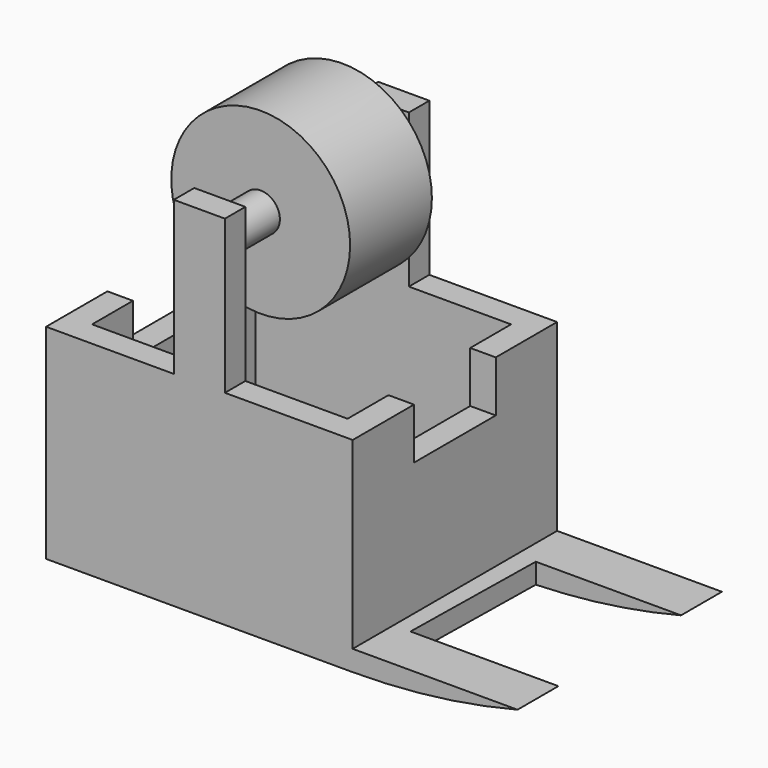
from build123d import *

# Parameters (mm, degrees)
F1_DEPTH  = 127
F2_W      = 127
F2_H      = 101.6
F3_DEPTH  = 76.2
F5_DEPTH  = 25.4
F7_DEPTH  = 25.4
F8_W      = 25.4
F8_H      = 12.7
F9_DEPTH  = 76.2
F11_DEPTH = 25.4
F12_R     = 9.525
F13_DEPTH = 101.6
F15_R     = 44.45
F15_R_2   = 9.525
F16_DEPTH = 25.4


with BuildPart() as f1:
    # F0 (on Front) → F1 (new body)
    with BuildSketch(Plane.XZ):
        Polygon((0, 101.6), (0, 0), (152.4, 0), (152.4, 10.206657), (152.4, 101.6), align=None)
        with BuildLine():
            Line((152.4, 10.206657), (152.4, 0))
            ThreePointArc((152.4, 0), (193.68606, 2.561486), (234.338875, 10.206657))
            Line((234.338875, 10.206657), (152.4, 10.206657))
        make_face()
    extrude(amount=F1_DEPTH)

    # F2 (on face) → F3 (cut)
    with BuildSketch(Plane.XY.offset(101.6)):
        with Locations((76.2, -63.5)):
            Rectangle(F2_W, F2_H)
    extrude(amount=-F3_DEPTH, mode=Mode.SUBTRACT)

    # F4 (on face) → F5 (cut)
    with BuildSketch(Plane.YZ.offset(152.4)):
        Polygon((-38.1, 101.6), (-63.5, 101.6), (-88.9, 101.6), (-88.9, 76.2), (-38.1, 76.2), align=None)
    extrude(amount=-F5_DEPTH, mode=Mode.SUBTRACT)

    # F6 (on face) → F7 (cut)
    with BuildSketch(Plane(origin=(0, 0, 0), x_dir=(0, -1, 0), z_dir=(-1, 0, 0))):
        Polygon((88.9, 101.6), (63.5, 101.6), (38.1, 101.6), (38.1, 76.2), (88.9, 76.2), align=None)
    extrude(amount=-F7_DEPTH, mode=Mode.SUBTRACT)

    # F8 (on face) → F9 (join)
    with BuildSketch(Plane.XY.offset(101.6)):
        Polygon((63.5, -127), (76.2, -127), (88.9, -127), (88.9, -114.3), (63.5, -114.3), align=None)
        with Locations((76.2, -6.35)):
            Rectangle(F8_W, F8_H)
    extrude(amount=F9_DEPTH)

    # F10 (on face) → F11 (cut)
    with BuildSketch(Plane.XY.offset(10.206657)):
        Polygon((162.145615, -25.4), (160.815539, -101.6), (198.388083, -101.6), (234.338875, -101.6), (234.338875, -25.4), (198.388083, -25.4), align=None)
    extrude(amount=-F11_DEPTH, mode=Mode.SUBTRACT)


with BuildPart() as f13:
    # F12 (on face) → F13 (new body, through all)
    with BuildSketch(Plane.XZ.offset(12.7)):
        with Locations((76.2, 161.001593)):
            Circle(F12_R)
    extrude(amount=F13_DEPTH)


with BuildPart() as f16:
    # F15 (on offset) → F16 (new body, symmetric)
    with BuildSketch(Plane.XZ.offset(63.5)):
        with Locations((76.2, 161.001593)):
            Circle(F15_R)
        with Locations((76.2, 161.001593)):
            Circle(F15_R_2, mode=Mode.SUBTRACT)
    extrude(amount=F16_DEPTH, both=True)


solid = Compound([f1.part, f13.part, f16.part])
